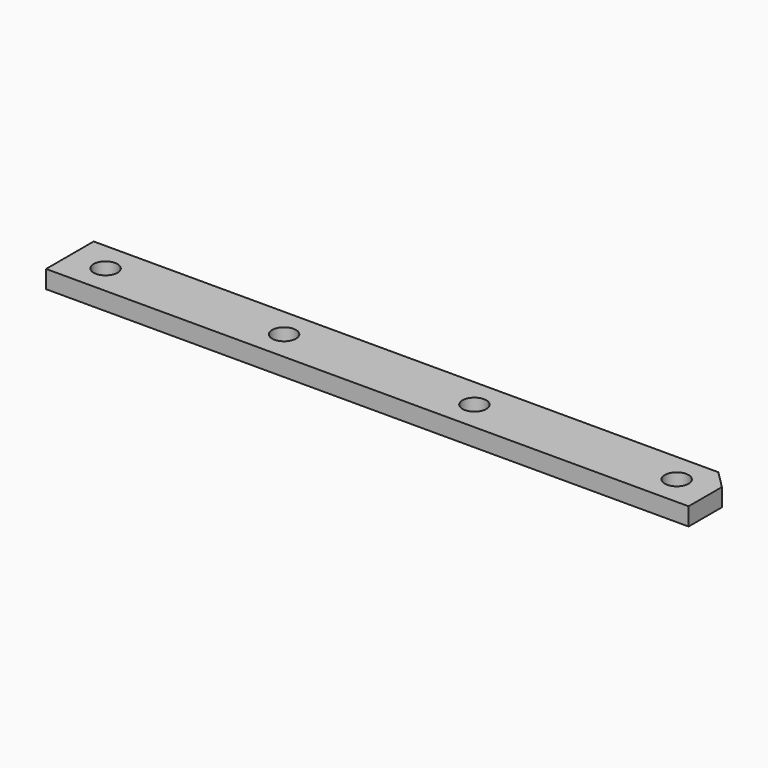
from build123d import *

# Parameters (mm, degrees)
F0_W     = 108
F0_H     = 10
F0_R     = 2
F1_DEPTH = 3
F2_SIZE  = 3


with BuildPart() as f1:
    # F0 (on Top) → F1 (new body)
    with BuildSketch(Plane.XY):
        Rectangle(F0_W, F0_H)
        with Locations((-48, 0)):
            Circle(F0_R, mode=Mode.SUBTRACT)
        with Locations((-18, 0)):
            Circle(F0_R, mode=Mode.SUBTRACT)
        with Locations((14, 0)):
            Circle(F0_R, mode=Mode.SUBTRACT)
        with Locations((48, 0)):
            Circle(F0_R, mode=Mode.SUBTRACT)
    extrude(amount=F1_DEPTH)

    # F2
    f2_edges = [f1.edges().sort_by_distance(p)[0] for p in [
        (54, 5, 1.5),
    ]]
    chamfer(f2_edges, length=F2_SIZE)


solid = f1.part
